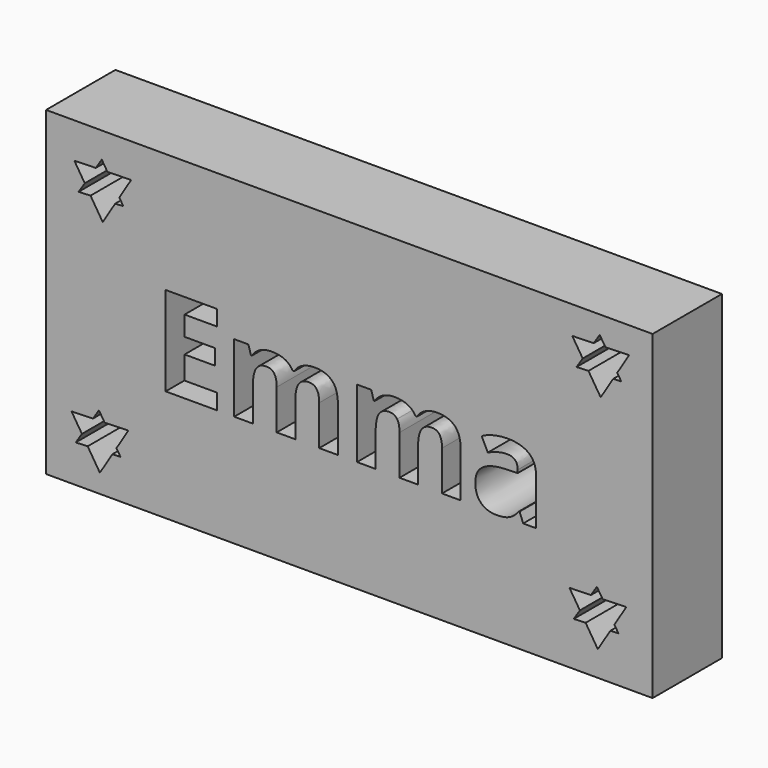
from build123d import *

# Parameters (mm, degrees)
F0_W     = 177.8
F0_H     = 93.98
F1_DEPTH = 25.4


with BuildPart() as f1:
    # F0 (on Front) → F1 (new body)
    with BuildSketch(Plane.XZ):
        Rectangle(F0_W, F0_H)
        Polygon((-78.3893592279, -33.2043307006), (-81.4477858399, -28.3752363383), (-75.1637665473, -28.2098666695), (-73.4050322839, -25.4866663498), (-71.7374442754, -28.1196998904), (-64.7994336937, -27.9371198475), (-68.2684389845, -33.5970763386), (-67.084334674, -35.466714612), (-69.474077785, -35.5641713939), (-73.1236097668, -41.5186714589), (-76.7079557164, -35.8591781919), (-80.1958118149, -36.0014174265), align=None, mode=Mode.SUBTRACT)
        Polygon((-38.7827101398, -9.6709367407), (-38.7827101398, -14.2541656515), (-53.8558042203, -14.2541656515), (-53.8558042203, 11.9218004655), (-38.7827101398, 11.9218004655), (-38.7827101398, 7.3729457715), (-48.3043682021, 7.3729457715), (-48.3043682021, 1.6267225245), (-39.4415492958, 1.6267225245), (-39.4415492958, -2.9221321695), (-48.3043682021, -2.9221321695), (-48.3043682021, -9.6709367407), align=None, mode=Mode.SUBTRACT)
        with BuildLine():
            Line((-15.8321913689, -4.2111653006), (-15.8321913689, -14.2541656515))
            Line((-15.8321913689, -14.2541656515), (-21.2919628089, -14.2541656515))
            Line((-21.2919628089, -14.2541656515), (-21.2919628089, -2.5612028927))
            add(Edge.make_bspline(
                [(-21.2919628089, -2.5612028927), (-21.2919628089, -0.3956272324), (-22.0166858804, 0.6871605978)],
                knots=[0, 0, 0, 1, 1, 1], degree=2))
            add(Edge.make_bspline(
                [(-22.0166858804, 0.6871605978), (-22.7414089519, 1.769948428), (-24.2997067816, 1.769948428)],
                knots=[0, 0, 0, 1, 1, 1], degree=2))
            add(Edge.make_bspline(
                [(-24.2997067816, 1.769948428), (-26.3965340083, 1.769948428), (-27.3446894892, 0.2288377067)],
                knots=[0, 0, 0, 1, 1, 1], degree=2))
            add(Edge.make_bspline(
                [(-27.3446894892, 0.2288377067), (-28.2928449702, -1.3122730145), (-28.2928449702, -4.8356302397)],
                knots=[0, 0, 0, 1, 1, 1], degree=2))
            Line((-28.2928449702, -4.8356302397), (-28.2928449702, -14.2541656515))
            Line((-28.2928449702, -14.2541656515), (-33.7526164102, -14.2541656515))
            Line((-33.7526164102, -14.2541656515), (-33.7526164102, 5.7630866166))
            Line((-33.7526164102, 5.7630866166), (-29.5818781013, 5.7630866166))
            Line((-29.5818781013, 5.7630866166), (-28.8485614756, 3.2022074626))
            Line((-28.8485614756, 3.2022074626), (-28.5449225603, 3.2022074626))
            add(Edge.make_bspline(
                [(-28.5449225603, 3.2022074626), (-27.7371284647, 4.582905172), (-26.21606937, 5.3591895688)],
                knots=[0, 0, 0, 1, 1, 1], degree=2))
            add(Edge.make_bspline(
                [(-26.21606937, 5.3591895688), (-24.6950102752, 6.1354739656), (-22.7242218435, 6.1354739656)],
                knots=[0, 0, 0, 1, 1, 1], degree=2))
            add(Edge.make_bspline(
                [(-22.7242218435, 6.1354739656), (-18.2326575109, 6.1354739656), (-16.6342564282, 3.2022074626)],
                knots=[0, 0, 0, 1, 1, 1], degree=2))
            Line((-16.6342564282, 3.2022074626), (-16.1530173926, 3.2022074626))
            add(Edge.make_bspline(
                [(-16.1530173926, 3.2022074626), (-15.3452232971, 4.6000922804), (-13.7811964313, 5.367783123)],
                knots=[0, 0, 0, 1, 1, 1], degree=2))
            add(Edge.make_bspline(
                [(-13.7811964313, 5.367783123), (-12.2171695654, 6.1354739656), (-10.2463811338, 6.1354739656)],
                knots=[0, 0, 0, 1, 1, 1], degree=2))
            add(Edge.make_bspline(
                [(-10.2463811338, 6.1354739656), (-6.8433336675, 6.1354739656), (-5.0988421633, 4.3909824614)],
                knots=[0, 0, 0, 1, 1, 1], degree=2))
            add(Edge.make_bspline(
                [(-5.0988421633, 4.3909824614), (-3.3543506591, 2.6464909572), (-3.3543506591, -1.2034213279)],
                knots=[0, 0, 0, 1, 1, 1], degree=2))
            Line((-3.3543506591, -1.2034213279), (-3.3543506591, -14.2541656515))
            Line((-3.3543506591, -14.2541656515), (-8.8313092076, -14.2541656515))
            Line((-8.8313092076, -14.2541656515), (-8.8313092076, -2.5612028927))
            add(Edge.make_bspline(
                [(-8.8313092076, -2.5612028927), (-8.8313092076, -0.3956272324), (-9.5560322791, 0.6871605978)],
                knots=[0, 0, 0, 1, 1, 1], degree=2))
            add(Edge.make_bspline(
                [(-9.5560322791, 0.6871605978), (-10.2807553506, 1.769948428), (-11.8390531803, 1.769948428)],
                knots=[0, 0, 0, 1, 1, 1], degree=2))
            add(Edge.make_bspline(
                [(-11.8390531803, 1.769948428), (-13.8442158288, 1.769948428), (-14.8382035988, 0.3376893934)],
                knots=[0, 0, 0, 1, 1, 1], degree=2))
            add(Edge.make_bspline(
                [(-14.8382035988, 0.3376893934), (-15.8321913689, -1.0945696413), (-15.8321913689, -4.2111653006)],
                knots=[0, 0, 0, 1, 1, 1], degree=2))
        make_face(mode=Mode.SUBTRACT)
        Polygon((67.5841369111, -31.2763812125), (64.5257102992, -26.4472868502), (70.8097295917, -26.2819171813), (72.5684638551, -23.5587168616), (74.2360518637, -26.1917504022), (81.1740624453, -26.0091703593), (77.7050571545, -31.6691268504), (78.889161465, -33.5387651239), (76.4994183541, -33.6362219057), (72.8498863723, -39.5907219707), (69.2655404226, -33.9312287038), (65.7776843241, -34.0734679383), align=None, mode=Mode.SUBTRACT)
        with BuildLine():
            Line((20.1690717257, -4.2111653006), (20.1690717257, -14.2541656515))
            Line((20.1690717257, -14.2541656515), (14.7093002857, -14.2541656515))
            Line((14.7093002857, -14.2541656515), (14.7093002857, -2.5612028927))
            add(Edge.make_bspline(
                [(14.7093002857, -2.5612028927), (14.7093002857, -0.3956272324), (13.9845772142, 0.6871605978)],
                knots=[0, 0, 0, 1, 1, 1], degree=2))
            add(Edge.make_bspline(
                [(13.9845772142, 0.6871605978), (13.2598541426, 1.769948428), (11.701556313, 1.769948428)],
                knots=[0, 0, 0, 1, 1, 1], degree=2))
            add(Edge.make_bspline(
                [(11.701556313, 1.769948428), (9.6047290863, 1.769948428), (8.6565736053, 0.2288377067)],
                knots=[0, 0, 0, 1, 1, 1], degree=2))
            add(Edge.make_bspline(
                [(8.6565736053, 0.2288377067), (7.7084181244, -1.3122730145), (7.7084181244, -4.8356302397)],
                knots=[0, 0, 0, 1, 1, 1], degree=2))
            Line((7.7084181244, -4.8356302397), (7.7084181244, -14.2541656515))
            Line((7.7084181244, -14.2541656515), (2.2486466844, -14.2541656515))
            Line((2.2486466844, -14.2541656515), (2.2486466844, 5.7630866166))
            Line((2.2486466844, 5.7630866166), (6.4193849932, 5.7630866166))
            Line((6.4193849932, 5.7630866166), (7.152701619, 3.2022074626))
            Line((7.152701619, 3.2022074626), (7.4563405343, 3.2022074626))
            add(Edge.make_bspline(
                [(7.4563405343, 3.2022074626), (8.2641346298, 4.582905172), (9.7851937246, 5.3591895688)],
                knots=[0, 0, 0, 1, 1, 1], degree=2))
            add(Edge.make_bspline(
                [(9.7851937246, 5.3591895688), (11.3062528194, 6.1354739656), (13.2770412511, 6.1354739656)],
                knots=[0, 0, 0, 1, 1, 1], degree=2))
            add(Edge.make_bspline(
                [(13.2770412511, 6.1354739656), (17.7686055837, 6.1354739656), (19.3670066663, 3.2022074626)],
                knots=[0, 0, 0, 1, 1, 1], degree=2))
            Line((19.3670066663, 3.2022074626), (19.848245702, 3.2022074626))
            add(Edge.make_bspline(
                [(19.848245702, 3.2022074626), (20.6560397975, 4.6000922804), (22.2200666633, 5.367783123)],
                knots=[0, 0, 0, 1, 1, 1], degree=2))
            add(Edge.make_bspline(
                [(22.2200666633, 5.367783123), (23.7840935291, 6.1354739656), (25.7548819608, 6.1354739656)],
                knots=[0, 0, 0, 1, 1, 1], degree=2))
            add(Edge.make_bspline(
                [(25.7548819608, 6.1354739656), (29.1579294271, 6.1354739656), (30.9024209313, 4.3909824614)],
                knots=[0, 0, 0, 1, 1, 1], degree=2))
            add(Edge.make_bspline(
                [(30.9024209313, 4.3909824614), (32.6469124355, 2.6464909572), (32.6469124355, -1.2034213279)],
                knots=[0, 0, 0, 1, 1, 1], degree=2))
            Line((32.6469124355, -1.2034213279), (32.6469124355, -14.2541656515))
            Line((32.6469124355, -14.2541656515), (27.169953887, -14.2541656515))
            Line((27.169953887, -14.2541656515), (27.169953887, -2.5612028927))
            add(Edge.make_bspline(
                [(27.169953887, -2.5612028927), (27.169953887, -0.3956272324), (26.4452308155, 0.6871605978)],
                knots=[0, 0, 0, 1, 1, 1], degree=2))
            add(Edge.make_bspline(
                [(26.4452308155, 0.6871605978), (25.720507744, 1.769948428), (24.1622099143, 1.769948428)],
                knots=[0, 0, 0, 1, 1, 1], degree=2))
            add(Edge.make_bspline(
                [(24.1622099143, 1.769948428), (22.1570472658, 1.769948428), (21.1630594958, 0.3376893934)],
                knots=[0, 0, 0, 1, 1, 1], degree=2))
            add(Edge.make_bspline(
                [(21.1630594958, 0.3376893934), (20.1690717257, -1.0945696413), (20.1690717257, -4.2111653006)],
                knots=[0, 0, 0, 1, 1, 1], degree=2))
        make_face(mode=Mode.SUBTRACT)
        with BuildLine():
            Line((54.7724500025, -14.2541656515), (50.9626409704, -14.2541656515))
            Line((50.9626409704, -14.2541656515), (49.9027692847, -11.5328734857))
            Line((49.9027692847, -11.5328734857), (49.7595433813, -11.5328734857))
            add(Edge.make_bspline(
                [(49.7595433813, -11.5328734857), (48.384574708, -13.2687714357), (46.9236704927, -13.9419331819)],
                knots=[0, 0, 0, 1, 1, 1], degree=2))
            add(Edge.make_bspline(
                [(46.9236704927, -13.9419331819), (45.4627662774, -14.6150949282), (43.1195904967, -14.6150949282)],
                knots=[0, 0, 0, 1, 1, 1], degree=2))
            add(Edge.make_bspline(
                [(43.1195904967, -14.6150949282), (40.237885319, -14.6150949282), (38.582193875, -12.9651325203)],
                knots=[0, 0, 0, 1, 1, 1], degree=2))
            add(Edge.make_bspline(
                [(38.582193875, -12.9651325203), (36.926502431, -11.3151701124), (36.926502431, -8.2730519229)],
                knots=[0, 0, 0, 1, 1, 1], degree=2))
            add(Edge.make_bspline(
                [(36.926502431, -8.2730519229), (36.926502431, -5.0877078298), (39.1550974888, -3.5752422893)],
                knots=[0, 0, 0, 1, 1, 1], degree=2))
            add(Edge.make_bspline(
                [(39.1550974888, -3.5752422893), (41.3836925467, -2.0627767487), (45.8752568794, -1.9023637368)],
                knots=[0, 0, 0, 1, 1, 1], degree=2))
            Line((45.8752568794, -1.9023637368), (49.3527818154, -1.7935120502))
            Line((49.3527818154, -1.7935120502), (49.3527818154, -0.916969521))
            add(Edge.make_bspline(
                [(49.3527818154, -0.916969521), (49.3527818154, 2.1251486686), (46.2361861561, 2.1251486686)],
                knots=[0, 0, 0, 1, 1, 1], degree=2))
            add(Edge.make_bspline(
                [(46.2361861561, 2.1251486686), (43.835720014, 2.1251486686), (40.5930855596, 0.6757025255)],
                knots=[0, 0, 0, 1, 1, 1], degree=2))
            Line((40.5930855596, 0.6757025255), (38.788439176, 4.3652017988))
            add(Edge.make_bspline(
                [(38.788439176, 4.3652017988), (42.2430479675, 6.1755772185), (46.4481604932, 6.1755772185)],
                knots=[0, 0, 0, 1, 1, 1], degree=2))
            add(Edge.make_bspline(
                [(46.4481604932, 6.1755772185), (50.4756728986, 6.1755772185), (52.6240614506, 4.4196276421)],
                knots=[0, 0, 0, 1, 1, 1], degree=2))
            add(Edge.make_bspline(
                [(52.6240614506, 4.4196276421), (54.7724500025, 2.6636780656), (54.7724500025, -0.916969521)],
                knots=[0, 0, 0, 1, 1, 1], degree=2))
            Line((54.7724500025, -0.916969521), (54.7724500025, -14.2541656515))
        make_face(mode=Mode.SUBTRACT)
        Polygon((-77.5546575255, 31.7534724354), (-80.6130841374, 36.5825667977), (-74.3290648449, 36.7479364666), (-72.5703305815, 39.4711367863), (-70.9027425729, 36.8381032457), (-63.9647319913, 37.0206832886), (-67.4337372821, 31.3607267975), (-66.2496329716, 29.491088524), (-68.6393760826, 29.3936317422), (-72.2889080644, 23.4391316772), (-75.873254014, 29.0986249441), (-79.3611101125, 28.9563857096), align=None, mode=Mode.SUBTRACT)
        Polygon((68.4103988488, 33.9985614538), (65.3519722368, 38.8276558161), (71.6359915293, 38.993025485), (73.3947257927, 41.7162258047), (75.0623138013, 39.0831922641), (82.000324383, 39.265772307), (78.5313190921, 33.6058158159), (79.7154234026, 31.7361775424), (77.3256802917, 31.6387207606), (73.6761483099, 25.6842206956), (70.0918023603, 31.3437139625), (66.6039462617, 31.201474728), align=None, mode=Mode.SUBTRACT)
    extrude(amount=F1_DEPTH)


solid = f1.part
